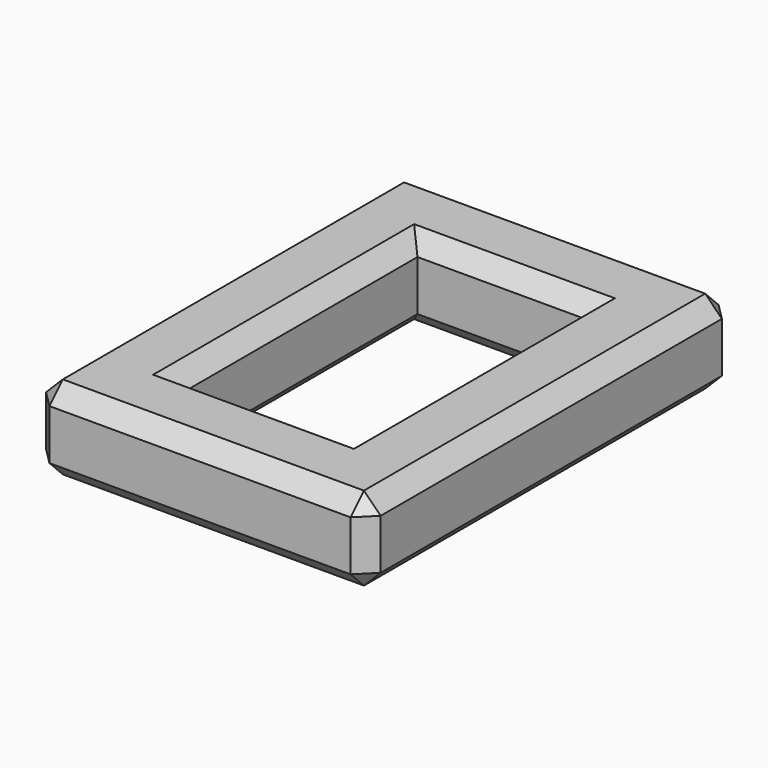
from build123d import *

# Parameters (mm, degrees)
F0_W     = 8
F0_H     = 11
F0_W_2   = 4
F0_H_2   = 7
F1_DEPTH = 2
F2_SIZE  = 0.4


with BuildPart() as f1:
    # F0 (on Top) → F1 (new body)
    with BuildSketch(Plane.XY):
        with Locations((-10.329974, -29.885177)):
            Rectangle(F0_W, F0_H)
        with Locations((-10.329974, -29.885177)):
            Rectangle(F0_W_2, F0_H_2, mode=Mode.SUBTRACT)
    extrude(amount=F1_DEPTH)

    # F2
    f2_edges = [f1.edges().sort_by_distance(p)[0] for p in [
        (-8.329974, -29.885177, 2),
        (-10.329974, -33.385177, 2),
        (-12.329974, -29.885177, 2),
        (-10.329974, -26.385177, 2),
        (-10.329974, -35.385177, 2),
        (-14.329974, -29.885177, 2),
        (-14.329974, -35.385177, 1),
        (-6.329974, -35.385177, 1),
        (-6.329974, -29.885177, 2),
        (-10.329974, -24.385177, 2),
        (-6.329974, -24.385177, 1),
        (-14.329974, -24.385177, 1),
        (-14.329974, -29.885177, 0),
        (-12.329974, -29.885177, 0),
        (-10.329974, -26.385177, 0),
        (-10.329974, -24.385177, 0),
        (-6.329974, -29.885177, 0),
        (-8.329974, -29.885177, 0),
        (-10.329974, -33.385177, 0),
        (-10.329974, -35.385177, 0),
    ]]
    chamfer(f2_edges, length=F2_SIZE)


solid = f1.part
